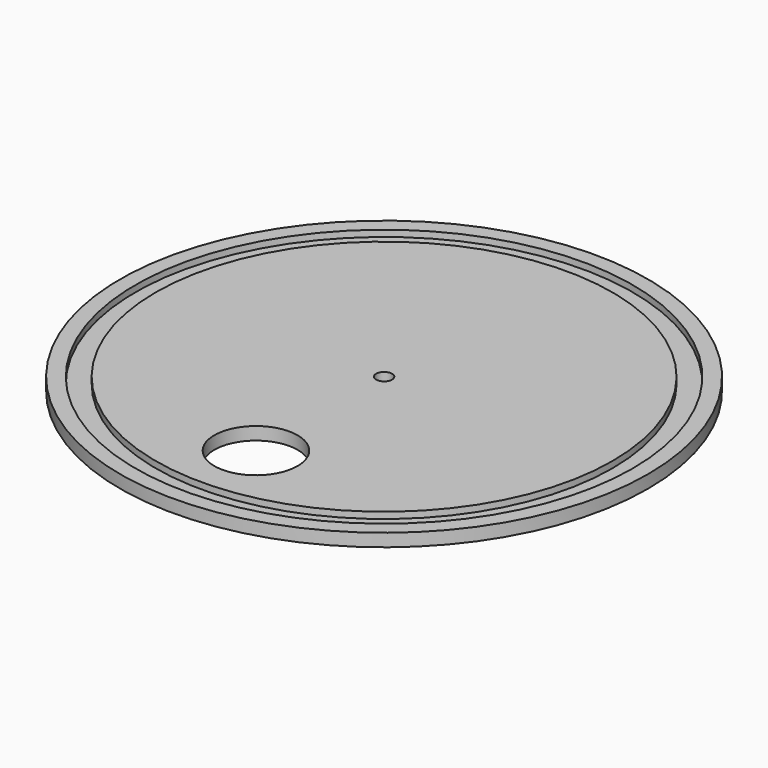
from build123d import *

# Parameters (mm, degrees)
F0_R     = 52.324
F0_R_2   = 1.5875
F1_DEPTH = 2.54
F2_R     = 49.276
F2_R_2   = 45.2755
F3_DEPTH = 1.27
F4_R     = 8.255
F5_DEPTH = 2.541


with BuildPart() as f1:
    # F0 (on Top) → F1 (new body)
    with BuildSketch(Plane.XY):
        Circle(F0_R)
        Circle(F0_R_2, mode=Mode.SUBTRACT)
    extrude(amount=F1_DEPTH)

    # F2 (on face) → F3 (cut)
    with BuildSketch(Plane.XY.offset(2.54)):
        Circle(F2_R)
        Circle(F2_R_2, mode=Mode.SUBTRACT)
    extrude(amount=-F3_DEPTH, mode=Mode.SUBTRACT)

    # F4 (on face) → F5 (cut, through all)
    with BuildSketch(Plane.XY.offset(2.54)):
        with Locations((0, -31.75)):
            Circle(F4_R)
    extrude(amount=-F5_DEPTH, mode=Mode.SUBTRACT)


solid = f1.part
